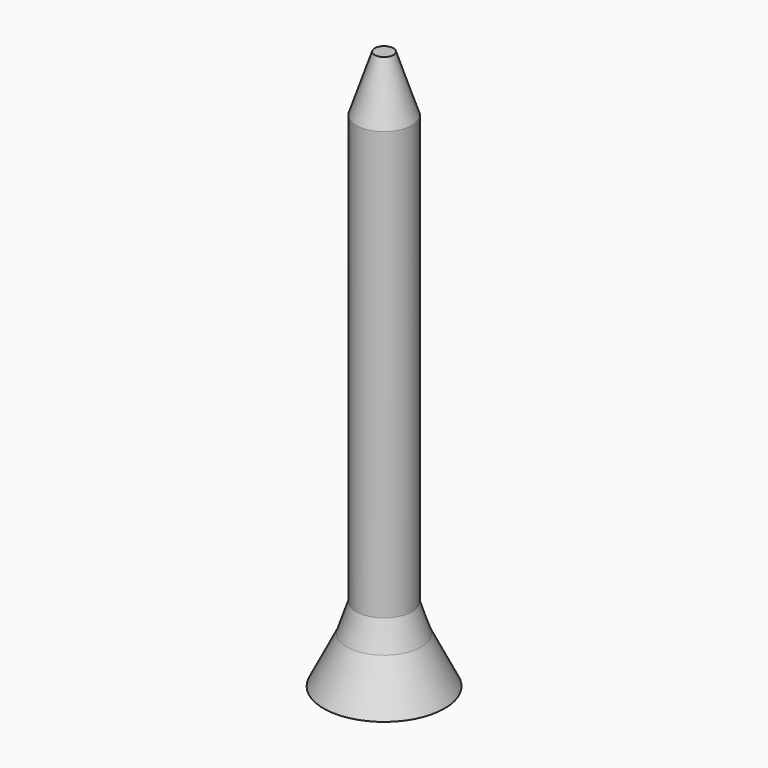
from build123d import *

# Parameters (mm, degrees)
SKETCH001_R = 2
SKETCH002_R = 1.5
SKETCH003_R = 1.5
SKETCH004_R = 0.5
SKETCH_R    = 3.25


with BuildPart() as loft001:
    # Sketch001 → Loft001 section 0
    with BuildSketch(Plane.XY.offset(2.5)):
        Circle(SKETCH001_R)
    # Sketch002 → Loft001 section 1
    with BuildSketch(Plane.XY.offset(4)):
        Circle(SKETCH002_R)
    loft()


with BuildPart() as loft002:
    # Sketch002 → Loft002 section 0
    with BuildSketch(Plane.XY.offset(4)):
        Circle(SKETCH002_R)
    # Sketch003 → Loft002 section 1
    with BuildSketch(Plane.XY.offset(27)):
        Circle(SKETCH003_R)
    loft()


with BuildPart() as loft003:
    # Sketch003 → Loft003 section 0
    with BuildSketch(Plane.XY.offset(27)):
        Circle(SKETCH003_R)
    # Sketch004 → Loft003 section 1
    with BuildSketch(Plane.XY.offset(30)):
        Circle(SKETCH004_R)
    loft()


with BuildPart() as fusion:
    # Sketch → Loft section 0
    with BuildSketch(Plane.XY):
        Circle(SKETCH_R)
    # Sketch001 → Loft section 1
    with BuildSketch(Plane.XY.offset(2.5)):
        Circle(SKETCH001_R)
    loft()

    # Fusion: union Loft001, Loft002, Loft003
    add(loft001.part)
    add(loft002.part)
    add(loft003.part)


solid = fusion.part
